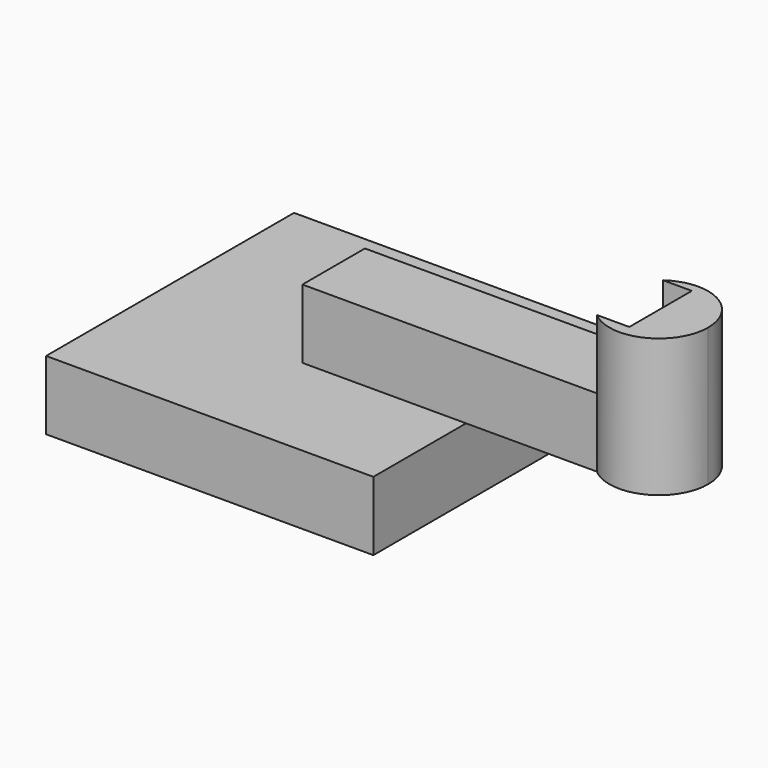
from build123d import *

# Parameters (mm, degrees)
F0_W     = 361.632824
F0_H     = 342.431128
F2_DEPTH = 76.2
F1_W     = 361.180782
F1_H     = 86.339838
F3_DEPTH = 152.4
F5_DEPTH = 76.2
F6_W     = 180.36437
F6_H     = 76.2
F7_DEPTH = 214.386483


with BuildPart() as f2:
    # F0 (on Top) → F2 (new body)
    with BuildSketch(Plane.XY):
        Rectangle(F0_W, F0_H)
    extrude(amount=F2_DEPTH)

    # F1 (on Top) → F3 (join)
    with BuildSketch(Plane.XY):
        with Locations((180.590391, 0)):
            Rectangle(F1_W, F1_H)
    extrude(amount=F3_DEPTH)

    # F4 (on face) → F5 (join, symmetric)
    with BuildSketch(Plane.XY.offset(152.4)):
        with BuildLine():
            ThreePointArc((325.230616, -43.169919), (383.41811, -51.064962), (415.034036, -1.582143))
            ThreePointArc((415.034036, -1.582143), (385.746466, 46.754361), (329.343175, 43.169919))
            Line((329.343175, 43.169919), (361.180782, 43.169919))
            Line((361.180782, 43.169919), (361.180782, -43.169919))
            Line((361.180782, -43.169919), (325.230616, -43.169919))
        make_face()
    extrude(amount=F5_DEPTH, both=True)

    # F6 (on face) → F7 (cut, through all)
    with BuildSketch(Plane(origin=(0, 43.169919, 0), x_dir=(-1, 0, 0), z_dir=(0, 1, 0))):
        with Locations((-270.998597, 38.1)):
            Rectangle(F6_W, F6_H)
    extrude(amount=-F7_DEPTH, mode=Mode.SUBTRACT)


solid = f2.part
